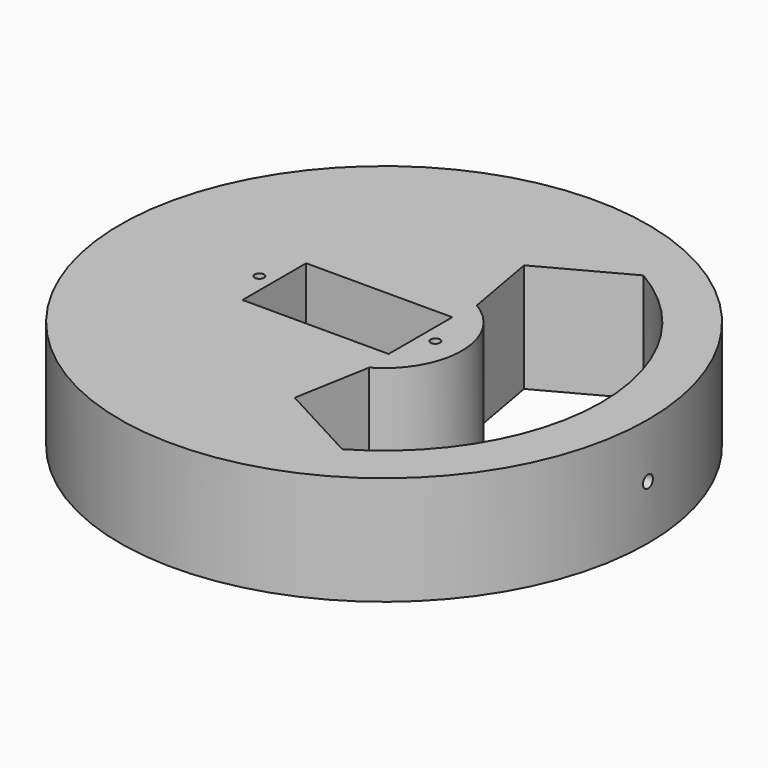
from build123d import *

# Parameters (mm, degrees)
SKETCH021_R           = 42.45
SKETCH021_R_2         = 0.75
SKETCH021_W           = 23.5
SKETCH021_H           = 12.8
PAD010_DEPTH          = 17.5
SKETCH025_R           = 1
POCKET013_DEPTH       = 5
POLARPATTERN002_COUNT = 3
POLARPATTERN002_ANGLE = 180


with BuildPart() as part:
    # Sketch021 → Pad010 (new body)
    with BuildSketch(Plane.XY):
        Circle(SKETCH021_R)
        with Locations((8.25, 0)):
            Circle(SKETCH021_R_2, mode=Mode.SUBTRACT)
        with Locations((-20.05, 0)):
            Circle(SKETCH021_R_2, mode=Mode.SUBTRACT)
        with BuildLine():
            ThreePointArc((6.249999, -10.825318), (12.5, -2e-06), (6.250002, 10.825316))
            Line((4.071802, 23.052558), (6.250002, 10.825316))
            Line((17.475007, 30.267584), (4.071802, 23.052558))
            ThreePointArc((17.474996, -30.26759), (34.95, -6e-06), (17.475007, 30.267584))
            Line((17.474996, -30.26759), (4.071794, -23.052559))
            Line((6.249999, -10.825318), (4.071794, -23.052559))
        make_face(mode=Mode.SUBTRACT)
        with Locations((-5.9, 0)):
            Rectangle(SKETCH021_W, SKETCH021_H, mode=Mode.SUBTRACT)
    extrude(amount=PAD010_DEPTH)

    # Sketch025 (on DatumPlane) → Pocket013 (cut)
    with BuildSketch(Plane.YZ.offset(42.45)):
        with Locations((0, 8.75)):
            Circle(SKETCH025_R)
    pocket013 = extrude(amount=-POCKET013_DEPTH, mode=Mode.SUBTRACT)

    # PolarPattern002: Pocket013 ×3 about axis
    polarpattern002_axis = Axis((0, 0, 0), (0, 0, 1))
    for i in range(1, POLARPATTERN002_COUNT):
        add(pocket013.rotate(polarpattern002_axis, i * POLARPATTERN002_ANGLE / (POLARPATTERN002_COUNT - 1)), mode=Mode.SUBTRACT)


solid = part.part
